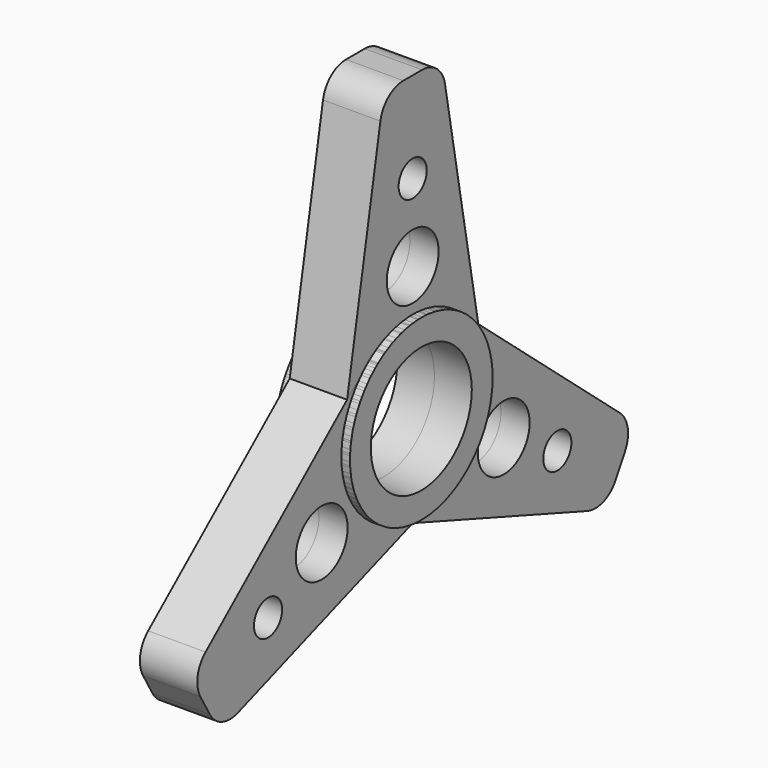
from build123d import *

# Parameters (mm, degrees)
F0_R          = 11
F1_DEPTH      = 6.5
F1_DEPTH_BACK = 6.5
F0_R_2        = 5.64864
F0_R_3        = 3.065612
F2_DEPTH      = 5
F2_DEPTH_BACK = 5
F3_R          = 5.08
F4_COUNT      = 3


with BuildPart() as f1:
    # F0 (on Right) → F1 (new body, two sides)
    with BuildSketch(Plane.YZ) as f1_sk:
        with BuildLine():
            ThreePointArc((-15.281984, 2.784187), (-1.397764, -15.47052), (15.533536, 0))
            ThreePointArc((15.533536, 0), (15.47052, 1.397764), (15.281984, 2.784187))
            ThreePointArc((15.281984, 2.784187), (0, 15.533536), (-15.281984, 2.784187))
        make_face()
        Circle(F0_R, mode=Mode.SUBTRACT)
    extrude(amount=F1_DEPTH)
    extrude(f1_sk.sketch, amount=-F1_DEPTH_BACK)

    # F0 (on Right) → F2 (join, two sides)
    with BuildSketch(Plane.YZ) as f2_sk:
        with BuildLine():
            ThreePointArc((-15.281984, 2.784187), (0, 15.533536), (15.281984, 2.784187))
            Line((15.281984, 2.784187), (6.276967, 52.211375))
            Line((6.276967, 52.211375), (-6.276967, 52.211375))
            Line((-6.276967, 52.211375), (-15.281984, 2.784187))
        make_face()
        with Locations((0, 22.889749)):
            Circle(F0_R_2, mode=Mode.SUBTRACT)
        with Locations((0, 36.382407)):
            Circle(F0_R_3, mode=Mode.SUBTRACT)
    extrude(amount=F2_DEPTH)
    extrude(f2_sk.sketch, amount=-F2_DEPTH_BACK)

    # F3
    f3_edges = [f1.edges().sort_by_distance(p)[0] for p in [
        (0, 6.276967, 52.211375),
        (0, -6.276967, 52.211375),
    ]]
    fillet(f3_edges, radius=F3_R)


with BuildPart() as f4_1:
    # F4: instance of F1
    add(f1.part.rotate(Axis((6.5, 0, 0), (-1, 0, 0)), 1 * 360 / F4_COUNT))


with BuildPart() as f4_2:
    # F4: instance of F1
    add(f1.part.rotate(Axis((6.5, 0, 0), (-1, 0, 0)), 2 * 360 / F4_COUNT))


solid = Compound([f1.part, f4_1.part, f4_2.part])
